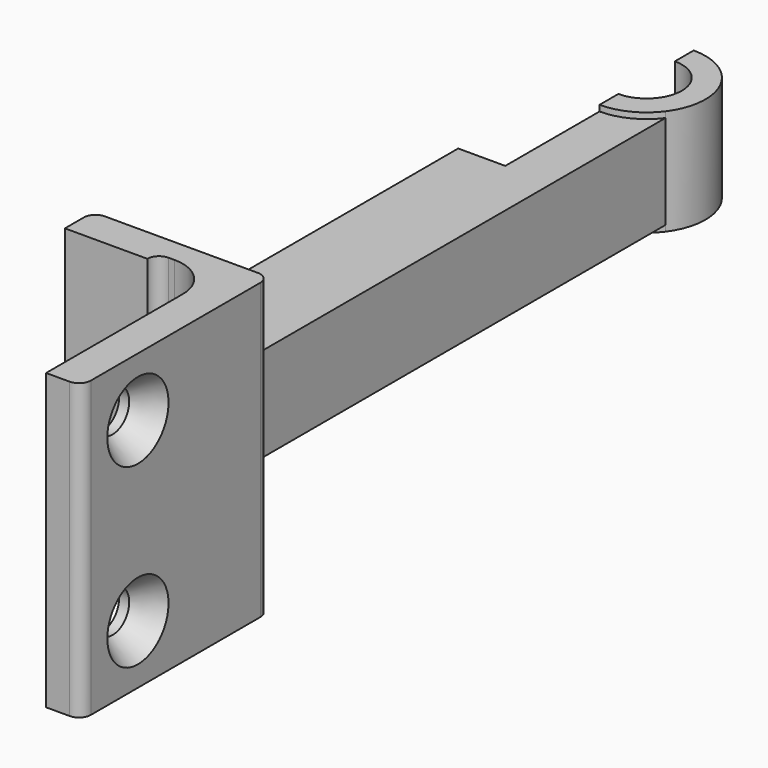
from build123d import *

# Parameters (mm, degrees)
F1_DEPTH       = 12.5
F3_D           = 3.5
F3_CSINK_D     = 6.5
F3_CSINK_ANGLE = 70
F4_DEPTH       = 4
F5_DEPTH       = 4.5
F7_W           = 48.072574
F7_H           = 4
F8_DEPTH       = 2
F9_R           = 2
F10_DEPTH      = 19.3


with BuildPart() as f1:
    # F0 (on Top) → F1 (new body, symmetric)
    with BuildSketch(Plane.XY):
        with BuildLine():
            Line((1.472, -11.782544), (-8.527783, -11.782544))
            ThreePointArc((-8.527783, -11.782544), (-9.23489, -12.075437), (-9.527783, -12.782544))
            Line((-9.527783, -12.782544), (-9.527783, -14.782544))
            Line((-9.527783, -14.782544), (-2.527783, -14.782544))
            ThreePointArc((-2.527783, -14.782544), (-2.23489, -14.075437), (-1.527783, -13.782544))
            Line((-1.527783, -13.782544), (-1.027783, -13.782544))
            ThreePointArc((-1.027783, -13.782544), (1.447091, -14.80767), (2.472217, -17.282544))
            Line((2.472217, -17.282544), (2.472217, -31.782544))
            Line((2.472217, -31.782544), (4.472217, -31.782544))
            ThreePointArc((4.472217, -31.782544), (5.179324, -31.489651), (5.472217, -30.782544))
            Line((5.472217, -30.782544), (5.472217, -12.782544))
            ThreePointArc((5.472217, -12.782544), (5.179324, -12.075437), (4.472217, -11.782544))
            Line((4.472217, -11.782544), (1.472, -11.782544))
        make_face()
    extrude(amount=F1_DEPTH, both=True)

    # F3 (through all)
    with Locations(Plane.YZ.offset(5.472217)):
        with Locations((-25.782544, 7.5), (-25.782544, -7.5)):
            CounterSinkHole(F3_D / 2, F3_CSINK_D / 2, counter_sink_angle=F3_CSINK_ANGLE)

    # F0 (on Top) → F4 (join, symmetric)
    with BuildSketch(Plane.XY):
        with BuildLine():
            Line((-6.528, -0.913868), (-8.527783, -11.782544))
            Line((-8.527783, -11.782544), (1.472, -11.782544))
            Line((1.472, -11.782544), (1.472, 35.217456))
            ThreePointArc((1.472, 35.217456), (-0.291932, 33.74532), (-2.528, 33.217456))
            Line((-2.528, 33.217456), (-2.528, 23.217456))
            Line((-2.528, 23.217456), (-6.528, 23.217456))
            Line((-6.528, 23.217456), (-6.528, -0.913868))
        make_face()
    extrude(amount=F4_DEPTH, both=True)

    # F0 (on Top) → F5 (join, symmetric)
    with BuildSketch(Plane.XY):
        with BuildLine():
            ThreePointArc((-2.528, 33.217456), (-0.291932, 33.74532), (1.472, 35.217456))
            ThreePointArc((1.472, 35.217456), (1.944136, 40.453524), (-2.528, 43.217456))
            Line((-2.528, 43.217456), (-2.528, 41.217456))
            ThreePointArc((-2.528, 41.217456), (0.472, 38.217456), (-2.528, 35.217456))
            Line((-2.528, 35.217456), (-2.528, 33.217456))
        make_face()
    extrude(amount=F5_DEPTH, both=True)

    # F7 (on offset) → F8 (cut, symmetric)
    with BuildSketch(Plane.YZ.offset(-2.528)):
        with Locations((12.492837, 0)):
            Rectangle(F7_W, F7_H)
    extrude(amount=F8_DEPTH, both=True, mode=Mode.SUBTRACT)

    # F9 (on Front) → F10 (cut)
    with BuildSketch(Plane.XZ):
        with Locations((-2.458, 0)):
            Circle(F9_R)
    extrude(amount=F10_DEPTH, mode=Mode.SUBTRACT)


solid = f1.part
